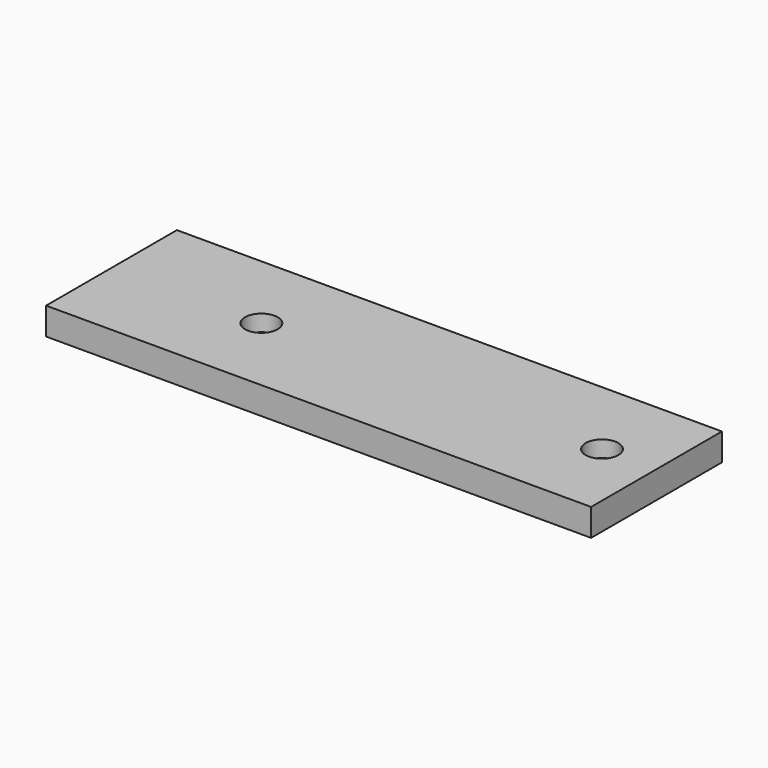
from build123d import *

# Parameters (mm, degrees)
F0_W           = 200
F0_H           = 60
F1_DEPTH       = 10
F3_D           = 6.6
F3_CBORE_D     = 12
F3_CBORE_DEPTH = 6


with BuildPart() as f1:
    # F0 (on Top) → F1 (new body)
    with BuildSketch(Plane.XY):
        with Locations((100, 30)):
            Rectangle(F0_W, F0_H)
    extrude(amount=F1_DEPTH)

    # F3 (through all)
    with Locations(Plane.XY.offset(10)):
        with Locations((180, 30), (55, 30)):
            CounterBoreHole(F3_D / 2, F3_CBORE_D / 2, F3_CBORE_DEPTH)


solid = f1.part
